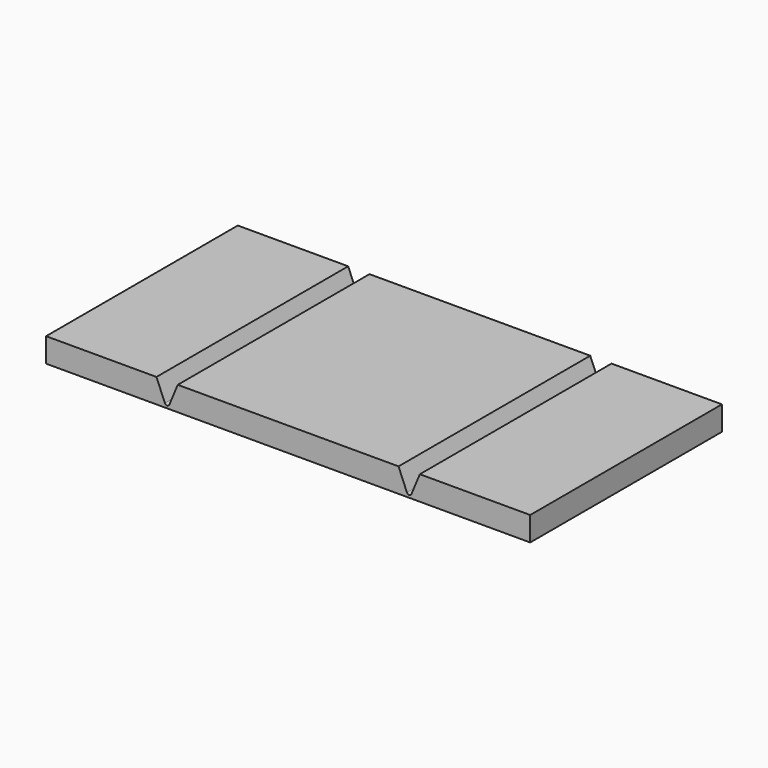
from build123d import *

# Parameters (mm, degrees)
F0_W     = 12.7
F0_H     = 25.146
F0_W_2   = 25.4
F1_DEPTH = 2.54
F3_DEPTH = 25.147


with BuildPart() as f1:
    # F0 (on Top) → F1 (new body)
    with BuildSketch(Plane.XY):
        with Locations((6.35, 12.573)):
            Rectangle(F0_W, F0_H)
        with Locations((25.4, 12.573)):
            Rectangle(F0_W_2, F0_H)
        with Locations((44.45, 12.573)):
            Rectangle(F0_W, F0_H)
    extrude(amount=F1_DEPTH)

    # F2 (on face) → F3 (cut, through all)
    with BuildSketch(Plane.XZ):
        with BuildLine():
            Line((13.81661, 2.54), (11.58339, 2.54))
            Line((11.58339, 2.54), (12.465335, 0.410798))
            ThreePointArc((12.465335, 0.410798), (12.7, 0.254), (12.934665, 0.410798))
            Line((12.934665, 0.410798), (13.81661, 2.54))
        make_face()
        with BuildLine():
            Line((39.21661, 2.54), (36.98339, 2.54))
            Line((36.98339, 2.54), (37.865335, 0.410798))
            ThreePointArc((37.865335, 0.410798), (38.1, 0.254), (38.334665, 0.410798))
            Line((38.334665, 0.410798), (39.21661, 2.54))
        make_face()
    extrude(amount=-F3_DEPTH, mode=Mode.SUBTRACT)


solid = f1.part
